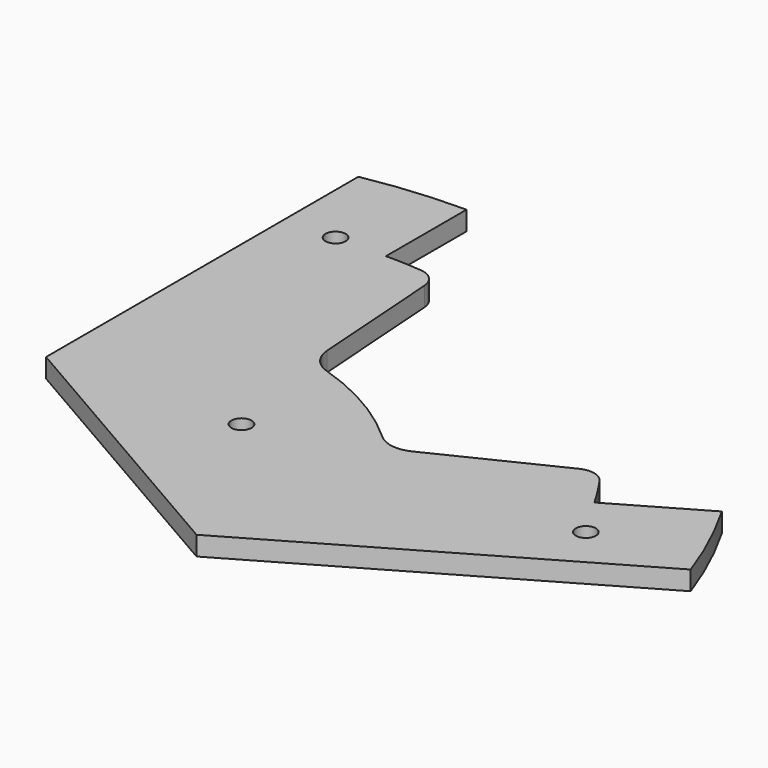
from build123d import *

# Parameters (mm, degrees)
F0_R     = 5
F1_DEPTH = 9.5


with BuildPart() as f1:
    # F0 (on Top) → F1 (new body)
    with BuildSketch(Plane.XY):
        with BuildLine():
            ThreePointArc((27.091291, 212.009885), (24.224301, 218.341531), (17.923315, 221.275292))
            ThreePointArc((17.923315, 221.275292), (8.96898, 221.818749), (0, 222))
            Line((0, 222), (0, 272))
            ThreePointArc((0, 272), (-25.10719, 270.838751), (-50, 267.364919))
            Line((-50, 267.364919), (-50, 73.627441))
            Line((-50, 73.627441), (88.763234, -6.48755))
            Line((88.763234, -6.48755), (256.544812, 90.381189))
            ThreePointArc((256.544812, 90.381189), (247.106834, 113.675911), (235.55891, 136))
            Line((235.55891, 136), (192.25764, 111))
            ThreePointArc((192.25764, 111), (187.616182, 118.676739), (182.668367, 126.159692))
            ThreePointArc((182.668367, 126.159692), (176.977162, 130.149626), (170.0603, 129.466689))
            Line((170.0603, 129.466689), (110.29109, 100.347803))
            ThreePointArc((110.29109, 100.347803), (101.586655, 98.98529), (93.61871, 102.745011))
            ThreePointArc((93.61871, 102.745011), (69.5, 120.377531), (42.170434, 132.448686))
            ThreePointArc((42.170434, 132.448686), (34.930449, 137.469269), (31.758201, 145.688787))
            Line((31.758201, 145.688787), (27.091291, 212.009885))
        make_face()
        with Locations((44.382053, 76.870964)):
            Circle(F0_R, mode=Mode.SUBTRACT)
        with Locations((205.15145, 89.576731)):
            Circle(F0_R, mode=Mode.SUBTRACT)
        with Locations((-25, 222)):
            Circle(F0_R, mode=Mode.SUBTRACT)
    extrude(amount=F1_DEPTH)


solid = f1.part
